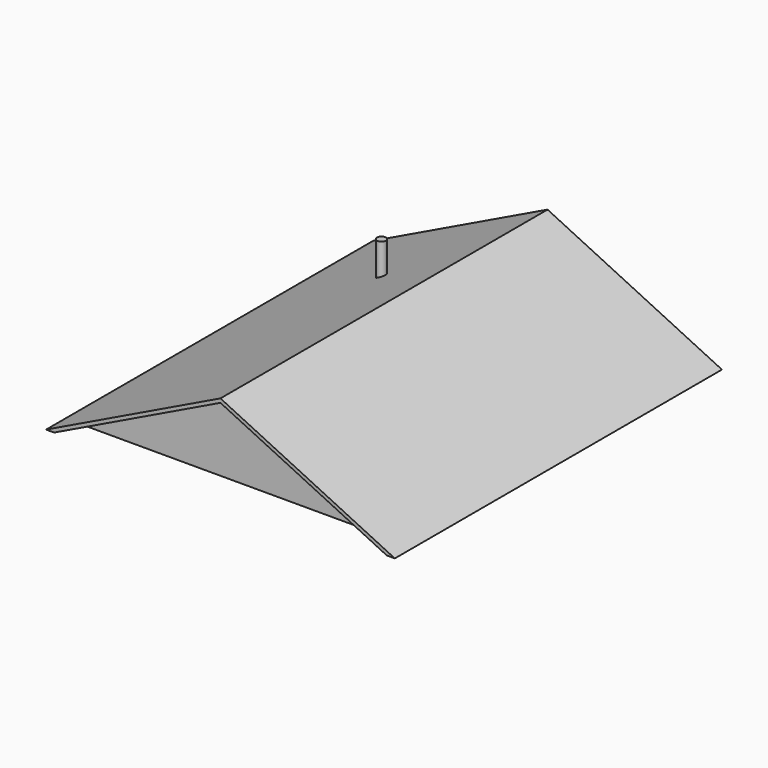
from build123d import *

# Parameters (mm, degrees)
F1_DEPTH = 10363.2
F3_DEPTH = 609.6
F5_DEPTH = 609.6
F6_R     = 111.724942856
F7_DEPTH = 2032


with BuildPart() as f1:
    # F0 (on Front) → F1 (new body)
    with BuildSketch(Plane.XZ):
        Polygon((-4419.6, 0), (0, 0), (4419.6, 0), (0, 2133.6), align=None)
    extrude(amount=-F1_DEPTH)

    # F2 (on face) → F3 (cut)
    with BuildSketch(Plane.XZ):
        Polygon((0, 2034.8827289295), (-4215.1142242111, 0), (4215.1142242111, 0), align=None)
    extrude(amount=-F3_DEPTH, mode=Mode.SUBTRACT)

    # F4 (on face) → F5 (cut)
    with BuildSketch(Plane(origin=(0, 10363.2, 0), x_dir=(-1, 0, 0), z_dir=(0, 1, 0))):
        Polygon((4215.1142242111, 0), (0, 2034.8827289295), (-4215.1142242111, 0), align=None)
    extrude(amount=-F5_DEPTH, mode=Mode.SUBTRACT)

    # F6 (on face) → F7 (join)
    with BuildSketch(Plane(origin=(0, 0, 0), x_dir=(1, 0, 0), z_dir=(0, 0, -1))):
        with Locations((-1898.5190391541, -7475.0661849976)):
            Circle(F6_R)
    extrude(amount=-F7_DEPTH)


solid = f1.part
